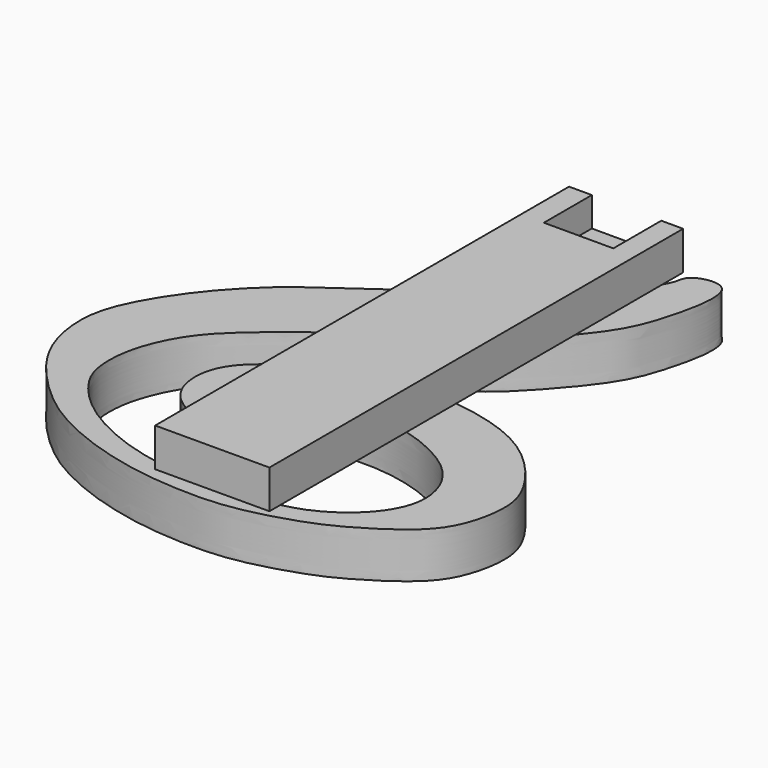
from build123d import *

# Parameters (mm, degrees)
F1_DEPTH = 25.4
F3_DEPTH = 21.44468
F4_W     = 38.6515130575
F4_H     = 33.3607643843
F5_DEPTH = 16.38298


with BuildPart() as f1:
    # F0 (on Top) → F1 (new body)
    with BuildSketch(Plane.XY):
        with BuildLine():
            add(Edge.make_bspline(
                [(30.4982404418, 170.0651537546), (28.019450623, 167.9816778027), (28.2150385436, 162.3354020497), (21.5849368927, 152.5131386388), (15.8889125429, 143.5520474691), (4.4830765485, 131.1095994753), (-1.2824248178, 124.7172833852), (-15.3701838228, 114.1293027053), (-32.4857231404, 102.6553265961), (-46.3874079003, 93.1093634823), (-82.9042763111, 66.7064860205), (-103.7468156143, 52.5730716915), (-127.2658912538, 28.8967080922), (-145.6706554017, 0.8143622386), (-153.3109955554, -21.8786713995), (-149.9998330954, -47.5554295351), (-139.4219810968, -67.3201982832), (-123.448261415, -84.9846323727), (-107.9370877463, -97.940354481), (-91.97699406, -107.1382563074), (-70.8381525314, -115.880292011), (-49.4593047866, -121.1859957964), (-33.4764226398, -123.5870328276), (-17.9907462507, -124.6964662427), (10.025893691, -125.0355182278), (46.3040748727, -113.842633069), (61.8823661329, -105.7240478871), (79.0103958506, -95.1958704265), (97.792997004, -79.2842684111), (104.0555486668, -50.6587416343), (100.1714054806, -32.8830354447), (84.0973112104, -10.2789637028), (57.8000688567, 8.980789715), (12.6341010117, 17.0022237914), (-18.002189329, 12.1162917762), (-48.4786731322, 1.5340645935), (-71.6000314389, -14.2817095442), (-79.1986067104, -28.3533530765), (-79.9487555823, -40.0991728086), (-77.4268850182, -49.8467184038), (-71.7230047564, -57.9936163126), (-61.7668340784, -64.5289167323), (-50.9598697367, -68.39847001), (-40.868176554, -57.5316652753), (-49.3215788352, -48.6239708614), (-53.7609172396, -34.9771286784), (-45.0268475498, -25.3268781823), (-30.8130303404, -19.9458852794), (-11.3673254888, -17.118866567), (7.8856368306, -16.8561836827), (32.5937954364, -21.334974187), (63.3676340693, -37.3138191869), (72.8594452799, -63.7981123597), (65.5516533025, -82.8518099697), (52.7165195248, -96.1428684624), (34.4692772486, -107.2711220433), (8.2106421645, -111.2928741623), (-19.4249441853, -113.4205695561), (-40.953298769, -111.0182446494), (-61.983614024, -105.8549113228), (-82.2695144577, -97.2969334096), (-100.7666984362, -84.9959574626), (-115.0967626334, -68.1227006668), (-119.1544456271, -53.3293128138), (-117.8966470561, -32.6619232986), (-106.8292637242, -8.6575459049), (-89.8934530781, 8.4195750961), (-62.2009065361, 30.9873416427), (-32.064779977, 49.4753832405), (-5.6979305476, 65.3154845194), (10.8589853916, 80.3488288892), (36.112718611, 109.5538401868), (45.424602711, 131.1372626277), (55.7771816455, 177.8126945717), (34.0248854458, 173.0293744405), (30.4982404418, 170.0651537546)],
                knots=[0, 0, 0, 0, 0.0084323199, 0.0183128232, 0.028299467, 0.0402341502, 0.0490550147, 0.0613301722, 0.0746577754, 0.0871164943, 0.1067253436, 0.1220446574, 0.1389195892, 0.1561015925, 0.1704395058, 0.1851358001, 0.1991448338, 0.213541201, 0.2267860221, 0.2394186676, 0.2536118583, 0.2675756847, 0.2793104053, 0.2907421161, 0.3065260638, 0.3247480938, 0.3371821466, 0.3501857873, 0.3648017226, 0.3803500235, 0.3928256818, 0.4079585079, 0.4249073404, 0.4446733091, 0.4612431996, 0.4780291219, 0.4935519604, 0.5050484867, 0.5149707915, 0.5242130549, 0.5334121098, 0.5436480337, 0.5532324247, 0.5629671228, 0.5726264709, 0.5833724928, 0.5932907512, 0.6047917364, 0.6178802881, 0.6307977962, 0.6456408847, 0.662818878, 0.6777777528, 0.6906576809, 0.7032103088, 0.7166976672, 0.7319744861, 0.74760217, 0.7613462139, 0.7750217784, 0.7888770744, 0.8029105786, 0.8166002221, 0.8279571678, 0.8412339287, 0.8562457207, 0.8707629639, 0.8883880328, 0.90627973, 0.9224044615, 0.9365942531, 0.9544384046, 0.9700953229, 0.9880030979, 1, 1, 1, 1], degree=3))
        make_face()
    extrude(amount=F1_DEPTH)

    # F2 (on face) → F3 (join)
    with BuildSketch(Plane.XY.offset(25.4)):
        with BuildLine():
            Line((-38.6916001286, 171.8740314245), (-38.6916001286, 98.371210819))
            add(Edge.make_bspline(
                [(24.8083998714, 157.4622361328), (23.884128344, 155.8970621287), (20.6560499324, 151.0517964418), (15.8889125429, 143.5520474691), (4.4830765485, 131.1095994753), (-1.2824248178, 124.7172833852), (-15.3701838228, 114.1293027053), (-29.7022847251, 104.5212979387), (-36.3782265467, 99.9715490327), (-38.6916001286, 98.371210819)],
                knots=[0.0136184468, 0.0136184468, 0.0136184468, 0.0136184468, 0.0183128232, 0.028299467, 0.0402341502, 0.0490550147, 0.0613301722, 0.0746577754, 0.0809266932, 0.0809266932, 0.0809266932, 0.0809266932], degree=3))
            Line((24.8083998714, 157.4622361328), (24.8083998714, 171.8740314245))
            Line((24.8083998714, 171.8740314245), (-38.6916001286, 171.8740314245))
        make_face()
        with BuildLine():
            add(Edge.make_bspline(
                [(24.8083998715, 13.9827926404), (20.6882158801, 14.4749125077), (4.3762413717, 15.6852451252), (-14.8151712631, 12.6245632878), (-31.9515926927, 7.1735674976), (-38.6916001285, 4.4318122733)],
                knots=[0.4392260523, 0.4392260523, 0.4392260523, 0.4392260523, 0.4446733091, 0.4612431996, 0.4725029934, 0.4725029934, 0.4725029934, 0.4725029934], degree=3))
            Line((24.8083998714, 13.9827926404), (24.8083998714, 96.9307559639))
            add(Edge.make_bspline(
                [(-38.6916001286, 45.3672994902), (-36.2396246925, 46.8763237746), (-24.6251638829, 53.9447936918), (-5.6979305476, 65.3154845194), (8.2702525106, 77.9983118591), (20.1761555165, 91.2749942318), (24.8083998714, 96.9307559639)],
                knots=[0.9019898009, 0.9019898009, 0.9019898009, 0.9019898009, 0.90627973, 0.9224044615, 0.9365942531, 0.946908624, 0.946908624, 0.946908624, 0.946908624], degree=3))
            Line((-38.6916001286, 45.3672994902), (-38.6916001286, 4.4318122733))
        make_face()
        with BuildLine():
            Line((22.5164723147, -12.8357740365), (24.8083998714, -12.8357740365))
            Line((24.8083998714, -12.8357740365), (24.8083998714, 13.9827926404))
            add(Edge.make_bspline(
                [(24.8083998715, 13.9827926404), (20.6882158801, 14.4749125077), (4.3762413717, 15.6852451252), (-14.8151712631, 12.6245632878), (-31.9515926927, 7.1735674976), (-38.6916001285, 4.4318122733)],
                knots=[0.4392260523, 0.4392260523, 0.4392260523, 0.4392260523, 0.4446733091, 0.4612431996, 0.4725029934, 0.4725029934, 0.4725029934, 0.4725029934], degree=3))
            Line((-38.6916001286, 4.4318122733), (-38.6916001286, -12.8357740365))
            Line((-38.6916001286, -12.8357740365), (22.5164723147, -12.8357740365))
        make_face()
        with BuildLine():
            Line((24.8083998714, -20.5143163165), (24.8083998714, -12.8357740365))
            Line((24.8083998714, -12.8357740365), (22.5164723147, -12.8357740365))
            Line((22.5164723147, -12.8357740365), (-38.6916001286, -12.8357740365))
            Line((-38.6916001286, -12.8357740365), (-38.6916001286, -23.1724602651))
            add(Edge.make_bspline(
                [(-38.6916001286, -23.1724602651), (-36.2759124032, -22.16294957), (-27.959394229, -19.5310233473), (-11.3673254888, -17.118866567), (5.9459679601, -16.8826480681), (18.6714029765, -18.86734104), (24.8083998715, -20.5143163165)],
                knots=[0.5987948694, 0.5987948694, 0.5987948694, 0.5987948694, 0.6047917364, 0.6178802881, 0.6307977962, 0.6415254753, 0.6415254753, 0.6415254753, 0.6415254753], degree=3))
        make_face()
        with BuildLine():
            Line((24.8083998714, -115.965623603), (24.8083998714, -108.348970924))
            add(Edge.make_bspline(
                [(24.8083998715, -108.348970924), (19.5112320914, -109.5094456931), (4.5747709158, -111.5728040472), (-18.4595843419, -113.3462453979), (-32.5441840506, -111.9469415031), (-38.6916001286, -110.9419820291)],
                knots=[0.7225718457, 0.7225718457, 0.7225718457, 0.7225718457, 0.7319744861, 0.74760217, 0.7597865613, 0.7597865613, 0.7597865613, 0.7597865613], degree=3))
            Line((-38.6916001286, -110.9419820291), (-38.6916001286, -116.1068046547))
            Line((-38.6916001286, -116.1068046547), (24.8083998714, -115.965623603))
        make_face()
        with BuildLine():
            Line((24.8083998714, -115.965623603), (24.8083998714, -108.348970924))
            add(Edge.make_bspline(
                [(24.8083998715, -108.348970924), (19.5112320914, -109.5094456931), (4.5747709158, -111.5728040472), (-18.4595843419, -113.3462453979), (-32.5441840506, -111.9469415031), (-38.6916001286, -110.9419820291)],
                knots=[0.7225718457, 0.7225718457, 0.7225718457, 0.7225718457, 0.7319744861, 0.74760217, 0.7597865613, 0.7597865613, 0.7597865613, 0.7597865613], degree=3))
            Line((-38.6916001286, -110.9419820291), (-38.6916001286, -116.1068046547))
            Line((-38.6916001286, -116.1068046547), (24.8083998714, -115.965623603))
        make_face()
        with BuildLine():
            Line((24.8083998714, -108.348970924), (24.8083998714, -20.5143163165))
            add(Edge.make_bspline(
                [(-38.6916001286, -23.1724602651), (-36.2759124032, -22.16294957), (-27.959394229, -19.5310233473), (-11.3673254888, -17.118866567), (5.9459679601, -16.8826480681), (18.6714029765, -18.86734104), (24.8083998715, -20.5143163165)],
                knots=[0.5987948694, 0.5987948694, 0.5987948694, 0.5987948694, 0.6047917364, 0.6178802881, 0.6307977962, 0.6415254753, 0.6415254753, 0.6415254753, 0.6415254753], degree=3))
            Line((-38.6916001286, -23.1724602651), (-38.6916001286, -110.9419820291))
            add(Edge.make_bspline(
                [(24.8083998715, -108.348970924), (19.5112320914, -109.5094456931), (4.5747709158, -111.5728040472), (-18.4595843419, -113.3462453979), (-32.5441840506, -111.9469415031), (-38.6916001286, -110.9419820291)],
                knots=[0.7225718457, 0.7225718457, 0.7225718457, 0.7225718457, 0.7319744861, 0.74760217, 0.7597865613, 0.7597865613, 0.7597865613, 0.7597865613], degree=3))
        make_face()
        with BuildLine():
            add(Edge.make_bspline(
                [(-38.6916001286, 45.3672994902), (-36.2396246925, 46.8763237746), (-24.6251638829, 53.9447936918), (-5.6979305476, 65.3154845194), (8.2702525106, 77.9983118591), (20.1761555165, 91.2749942318), (24.8083998714, 96.9307559639)],
                knots=[0.9019898009, 0.9019898009, 0.9019898009, 0.9019898009, 0.90627973, 0.9224044615, 0.9365942531, 0.946908624, 0.946908624, 0.946908624, 0.946908624], degree=3))
            Line((24.8083998714, 96.9307559639), (24.8083998714, 157.4622361328))
            add(Edge.make_bspline(
                [(24.8083998714, 157.4622361328), (23.884128344, 155.8970621287), (20.6560499324, 151.0517964418), (15.8889125429, 143.5520474691), (4.4830765485, 131.1095994753), (-1.2824248178, 124.7172833852), (-15.3701838228, 114.1293027053), (-29.7022847251, 104.5212979387), (-36.3782265467, 99.9715490327), (-38.6916001286, 98.371210819)],
                knots=[0.0136184468, 0.0136184468, 0.0136184468, 0.0136184468, 0.0183128232, 0.028299467, 0.0402341502, 0.0490550147, 0.0613301722, 0.0746577754, 0.0809266932, 0.0809266932, 0.0809266932, 0.0809266932], degree=3))
            Line((-38.6916001286, 98.371210819), (-38.6916001286, 45.3672994902))
        make_face()
    extrude(amount=F3_DEPTH)

    # F4 (on face) → F5 (cut)
    with BuildSketch(Plane.XY.offset(46.84468)):
        with Locations((-6.6658435998, 155.1936492324)):
            Rectangle(F4_W, F4_H)
    extrude(amount=-F5_DEPTH, mode=Mode.SUBTRACT)


solid = f1.part
